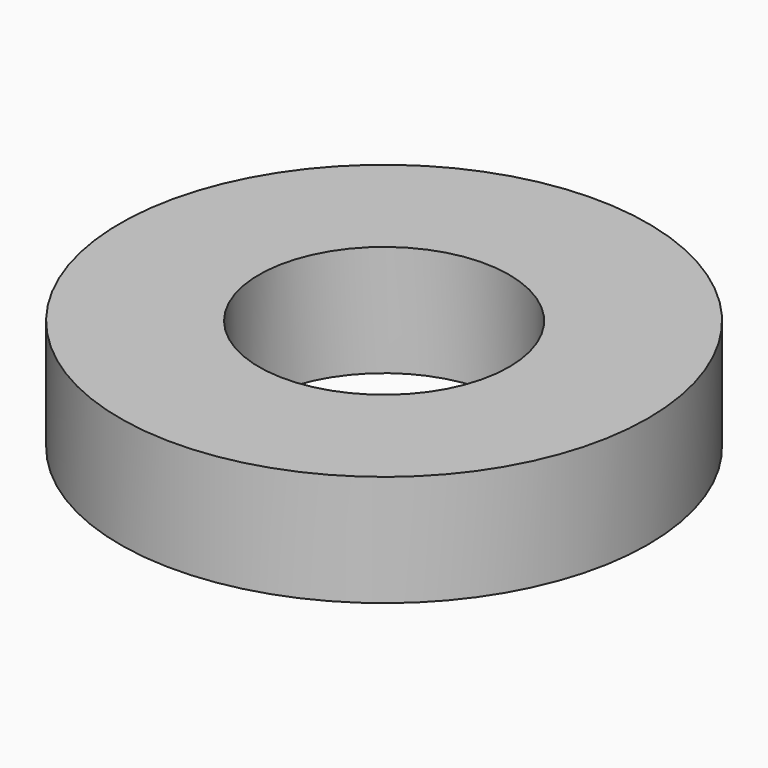
from build123d import *

# Parameters (mm, degrees)
SKETCH001_R  = 65
PAD_DEPTH    = 4
SKETCH002_R  = 9.5
PAD001_DEPTH = 10


with BuildPart() as body001:
    # Sketch001 → Pad (new body)
    with BuildSketch(Plane.XY):
        Circle(SKETCH001_R)
    extrude(amount=PAD_DEPTH)


with BuildPart() as body002:
    # Sketch002 → Pad001 (new body)
    with BuildSketch(Plane.XY):
        Circle(SKETCH002_R)
    extrude(amount=PAD001_DEPTH)


with BuildPart() as body:
    # Sketch → Revolution (revolve)
    with BuildSketch(Plane.XZ):
        Polygon((4.5, 10), (4.5, 0), (56.757359, 0), (58.757359, 2), (61.242641, 2), (63.242641, 0), (95.232233, 0), (97, 1.767767), (97, 12.5), (96, 12.5), (96, 2.181981), (94.818019, 1), (63.656854, 1), (62.242641, 2.414214), (62.242641, 12.5), (61.242641, 12.5), (61.242641, 4), (57.928932, 4), (55.928932, 2), (9.5, 2), (9.5, 10), align=None)
    revolve(axis=Axis((0, 0, 0), (0, 0, 1)))

    # Boolean: intersect Body001
    add(body001.part, mode=Mode.INTERSECT)

    # Boolean001: intersect Body002
    add(body002.part, mode=Mode.INTERSECT)


solid = body.part
